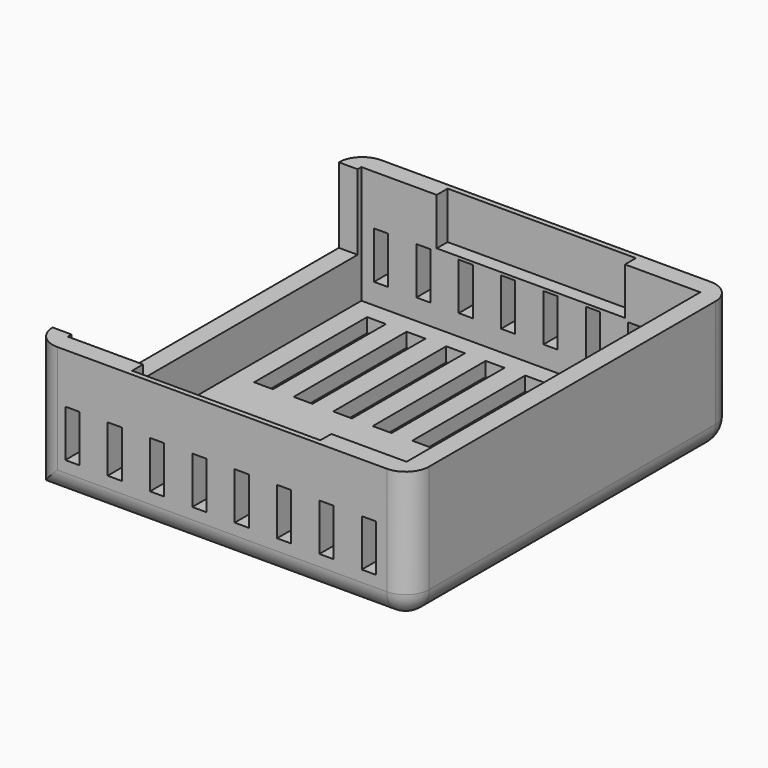
from build123d import *

# Parameters (mm, degrees)
F0_W      = 40
F0_H      = 43
F0_W_2    = 36
F0_H_2    = 39
F1_DEPTH  = 1.5
F2_DEPTH  = 14
F3_W      = 2
F3_H      = 38
F4_DEPTH  = 8
F5_R      = 2.5
F6_W      = 20
F6_H      = 0.05
F6_H_2    = 1.45
F7_DEPTH  = 5
F8_W      = 2
F8_H      = 15
F9_DEPTH  = 25
F10_W     = 1.5
F10_H     = 5
F11_DEPTH = 50


with BuildPart() as f1:
    # F0 (on Top) → F1 (new body)
    with BuildSketch(Plane.XY):
        Rectangle(F0_W, F0_H)
        Rectangle(F0_W_2, F0_H_2, mode=Mode.SUBTRACT)
        Rectangle(F0_W_2, F0_H_2)
    extrude(amount=F1_DEPTH)

    # F0 (on Top) → F2 (join)
    with BuildSketch(Plane.XY):
        Rectangle(F0_W, F0_H)
        Rectangle(F0_W_2, F0_H_2, mode=Mode.SUBTRACT)
    extrude(amount=F2_DEPTH)

    # F3 (on face) → F4 (cut)
    with BuildSketch(Plane.XY.offset(14)):
        with Locations((-19, 0)):
            Rectangle(F3_W, F3_H)
    extrude(amount=-F4_DEPTH, mode=Mode.SUBTRACT)

    # F5
    f5_edges = [f1.edges().sort_by_distance(p)[0] for p in [
        (-20, -21.5, 7),
        (20, -21.5, 7),
        (20, 21.5, 7),
        (-20, 21.5, 7),
        (0, -21.5, 0),
        (20, 0, 0),
        (0, 21.5, 0),
    ]]
    fillet(f5_edges, radius=F5_R)

    # F6 (on face) → F7 (cut)
    with BuildSketch(Plane.XY.offset(14)):
        with Locations((0, 19.475)):
            Rectangle(F6_W, F6_H)
        with Locations((0, -19.475)):
            Rectangle(F6_W, F6_H)
        with Locations((0, -20.225)):
            Rectangle(F6_W, F6_H_2)
        with Locations((0, 20.225)):
            Rectangle(F6_W, F6_H_2)
    extrude(amount=-F7_DEPTH, mode=Mode.SUBTRACT)

    # F8 (on face) → F9 (cut)
    with BuildSketch(Plane.XY.offset(1.5)):
        with Locations((-14.7980369404, 9.9996174034)):
            Rectangle(F8_W, F8_H)
        with Locations((-14.7980369404, -9.9996174034)):
            Rectangle(F8_W, F8_H)
        with Locations((-10.5980369404, 9.9996174034)):
            Rectangle(F8_W, F8_H)
        with Locations((-10.5980369404, -9.9996174034)):
            Rectangle(F8_W, F8_H)
        with Locations((-6.3980369404, 9.9996174034)):
            Rectangle(F8_W, F8_H)
        with Locations((-6.3980369404, -9.9996174034)):
            Rectangle(F8_W, F8_H)
        with Locations((-2.1980369404, 9.9996174034)):
            Rectangle(F8_W, F8_H)
        with Locations((-2.1980369404, -9.9996174034)):
            Rectangle(F8_W, F8_H)
        with Locations((2.0019630596, 9.9996174034)):
            Rectangle(F8_W, F8_H)
        with Locations((2.0019630596, -9.9996174034)):
            Rectangle(F8_W, F8_H)
        with Locations((6.2019630596, 9.9996174034)):
            Rectangle(F8_W, F8_H)
        with Locations((6.2019630596, -9.9996174034)):
            Rectangle(F8_W, F8_H)
        with Locations((10.4019630596, 9.9996174034)):
            Rectangle(F8_W, F8_H)
        with Locations((10.4019630596, -9.9996174034)):
            Rectangle(F8_W, F8_H)
        with Locations((14.6019630596, 9.9996174034)):
            Rectangle(F8_W, F8_H)
        with Locations((14.6019630596, -9.9996174034)):
            Rectangle(F8_W, F8_H)
    extrude(amount=-F9_DEPTH, mode=Mode.SUBTRACT)

    # F10 (on face) → F11 (cut)
    with BuildSketch(Plane.XZ.offset(21.5)):
        with Locations((-15.9102423415, 6.201856127)):
            Rectangle(F10_W, F10_H)
        with Locations((-11.4102423415, 6.201856127)):
            Rectangle(F10_W, F10_H)
        with Locations((-6.9102423415, 6.201856127)):
            Rectangle(F10_W, F10_H)
        with Locations((-2.4102423415, 6.201856127)):
            Rectangle(F10_W, F10_H)
        with Locations((2.0897576585, 6.201856127)):
            Rectangle(F10_W, F10_H)
        with Locations((6.5897576585, 6.201856127)):
            Rectangle(F10_W, F10_H)
        with Locations((11.0897576585, 6.201856127)):
            Rectangle(F10_W, F10_H)
        with Locations((15.5897576585, 6.201856127)):
            Rectangle(F10_W, F10_H)
    extrude(amount=-F11_DEPTH, mode=Mode.SUBTRACT)


solid = f1.part
